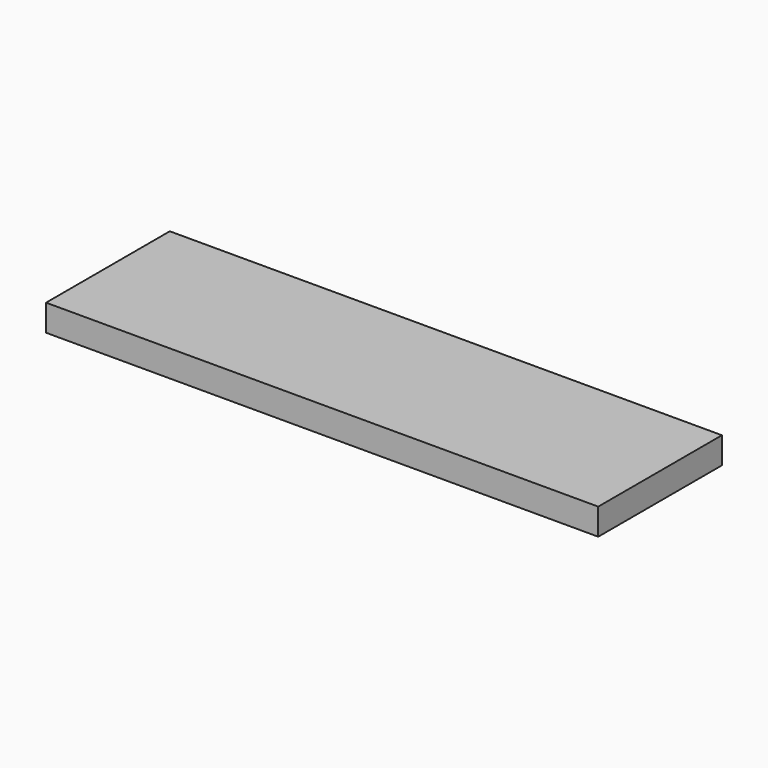
from build123d import *

# Parameters (mm, degrees)
PAD_DEPTH    = 12
POCKET_DEPTH = 1


with BuildPart() as part:
    # Sketch → Pad (new body)
    with BuildSketch(Plane.XY):
        Polygon((0, 0), (0, 35), (250, 35), (250, -35), (0, -35), align=None)
    extrude(amount=PAD_DEPTH)

    # Sketch002 (on Face7 of Pad) → Pocket (cut)
    with BuildSketch(Plane.XY.offset(12)):
        Polygon((0, -35), (0, -71.973152), (250, -35), align=None)
    extrude(amount=-POCKET_DEPTH, mode=Mode.SUBTRACT)


solid = part.part
